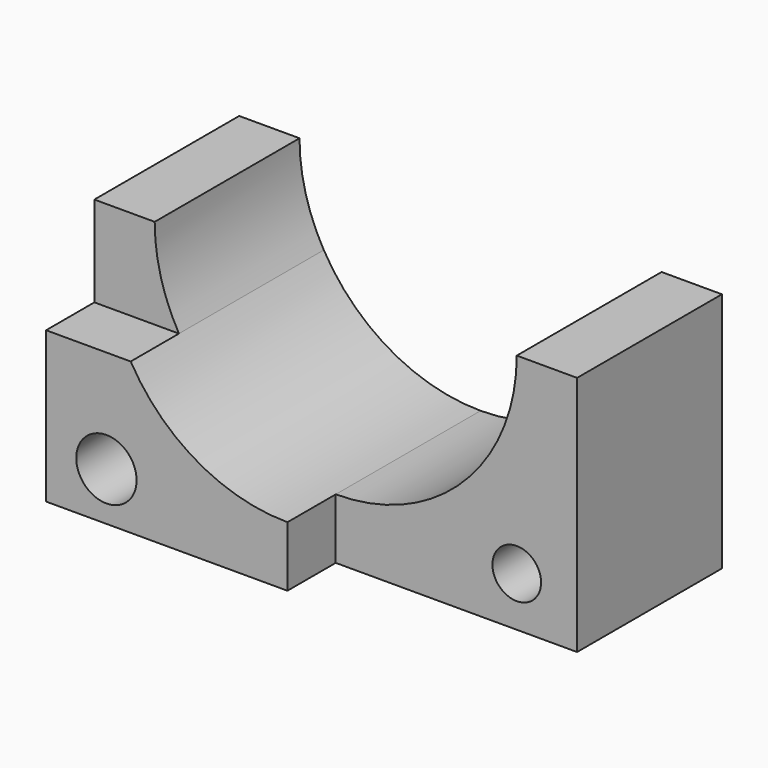
from build123d import *

# Parameters (mm, degrees)
F1_DEPTH = 40
F2_R     = 5
F2_R_2   = 4.0311299375
F3_DEPTH = 40.001
F5_DEPTH = 10


with BuildPart() as f1:
    # F0 (on Top) → F1 (new body)
    with BuildSketch(Plane.XY):
        Polygon((41.0151937604, 22.0804412934), (-38.9848062396, 22.0804412934), (-38.9848062396, -17.9195587066), (1.0151937604, -17.9195587066), (1.0151937604, -7.9195587066), (41.0151937604, -7.9195587066), align=None)
    extrude(amount=F1_DEPTH)

    # F2 (on face) → F3 (cut, through all)
    with BuildSketch(Plane.XZ.offset(17.9195587066)):
        with BuildLine():
            ThreePointArc((1.0151937604, 10), (22.228397196, 18.7867965644), (31.0151937604, 40))
            ThreePointArc((31.0151937604, 40), (3.5208867316, 69.8951752417), (-28.5662397552, 44.9938753651))
            Line((-28.5662397552, 44.9938753651), (-24.9655683531, 44.9938753651))
            Line((-24.9655683531, 44.9938753651), (-24.9655683531, 40))
            Line((-24.9655683531, 40), (1.0151937604, 40))
            Line((1.0151937604, 40), (1.0151937604, 10))
        make_face()
        with BuildLine():
            ThreePointArc((-24.9655683531, 25), (-13.9848062396, 14.0192378865), (1.0151937604, 10))
            Line((1.0151937604, 10), (1.0151937604, 40))
            Line((1.0151937604, 40), (-24.9655683531, 40))
            Line((-24.9655683531, 40), (-24.9655683531, 25))
        make_face()
        with BuildLine():
            Line((-24.9655683531, 40), (-28.9848062396, 40))
            ThreePointArc((-28.9848062396, 40), (-27.9625810283, 32.2354286469), (-24.9655683531, 25))
            Line((-24.9655683531, 25), (-24.9655683531, 40))
        make_face()
        with Locations((-28.9848062396, 7.9765189439)):
            Circle(F2_R)
        with Locations((31.0151937604, 8.2001261983)):
            Circle(F2_R_2)
        with BuildLine():
            Line((-24.9655683531, 44.9938753651), (-28.5662397552, 44.9938753651))
            ThreePointArc((-28.5662397552, 44.9938753651), (-28.8799814813, 42.5056929712), (-28.9848062396, 40))
            Line((-28.9848062396, 40), (-24.9655683531, 40))
            Line((-24.9655683531, 40), (-24.9655683531, 44.9938753651))
        make_face()
    extrude(amount=-F3_DEPTH, mode=Mode.SUBTRACT)

    # F4 (on face) → F5 (cut)
    with BuildSketch(Plane.XZ.offset(17.9195587066)):
        with BuildLine():
            Line((-19.918359757, 48.6072202153), (-45.8058249796, 48.6072202153))
            Line((-45.8058249796, 48.6072202153), (-45.8058249796, 25))
            Line((-45.8058249796, 25), (-38.9848062396, 25))
            Line((-38.9848062396, 25), (-38.9848062396, 40))
            Line((-38.9848062396, 40), (-28.9848062396, 40))
            ThreePointArc((-28.9848062396, 40), (-27.9625810283, 32.2354286469), (-24.9655683531, 25))
            Line((-24.9655683531, 25), (-19.918359757, 25))
            Line((-19.918359757, 25), (-19.918359757, 48.6072202153))
        make_face()
        with BuildLine():
            Line((-38.9848062396, 40), (-38.9848062396, 25))
            Line((-38.9848062396, 25), (-24.9655683531, 25))
            ThreePointArc((-24.9655683531, 25), (-27.9625810283, 32.2354286469), (-28.9848062396, 40))
            Line((-28.9848062396, 40), (-38.9848062396, 40))
        make_face()
    extrude(amount=-F5_DEPTH, mode=Mode.SUBTRACT)


solid = f1.part
